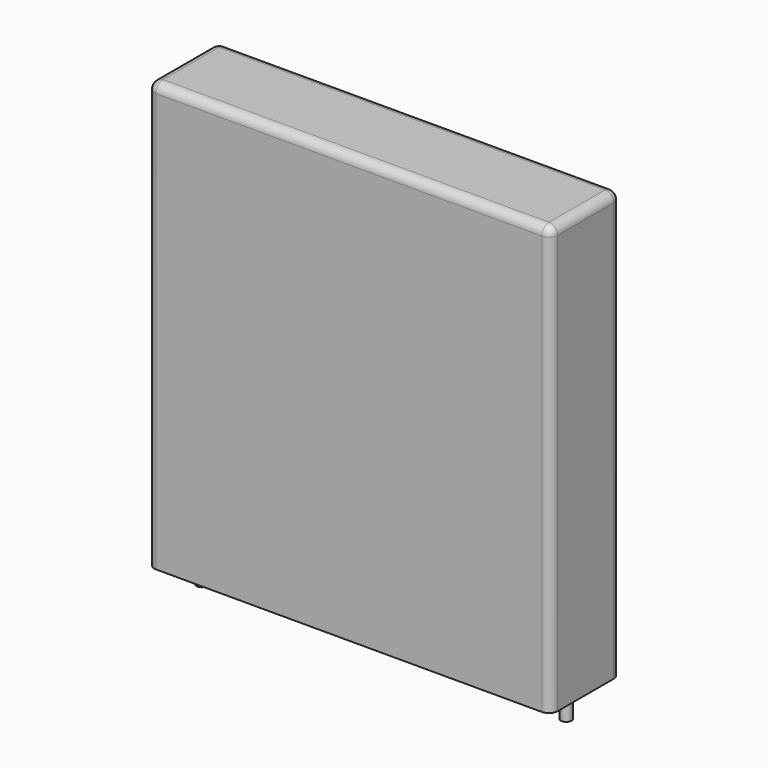
from build123d import *

# Parameters (mm, degrees)
SKETCH_W     = 41.5
SKETCH_H     = 9
PAD_DEPTH    = 44
FILLET_R     = 0.9
SKETCH001_R  = 0.55
PAD001_DEPTH = 3.2


with BuildPart() as fillet_body:
    # Sketch → Pad (new body)
    with BuildSketch(Plane.XY.offset(0.1)):
        with Locations((18.75, 0)):
            Rectangle(SKETCH_W, SKETCH_H)
    extrude(amount=PAD_DEPTH)

    # Fillet
    fillet_edges = [fillet_body.edges().sort_by_distance(p)[0] for p in [
        (-2, 0, 44.1),
        (-2, -4.5, 22.1),
        (18.75, -4.5, 44.1),
        (39.5, -4.5, 22.1),
        (39.5, 0, 44.1),
        (39.5, 4.5, 22.1),
        (18.75, 4.5, 44.1),
        (-2, 4.5, 22.1),
    ]]
    fillet(fillet_edges, radius=FILLET_R)


with BuildPart() as pad001:
    # Sketch001 → Pad001 (new body)
    with BuildSketch(Plane.XY.offset(0.5)):
        Circle(SKETCH001_R)
        with Locations((37.5, 0)):
            Circle(SKETCH001_R)
    extrude(amount=-PAD001_DEPTH)


solid = Compound([fillet_body.part, pad001.part])
